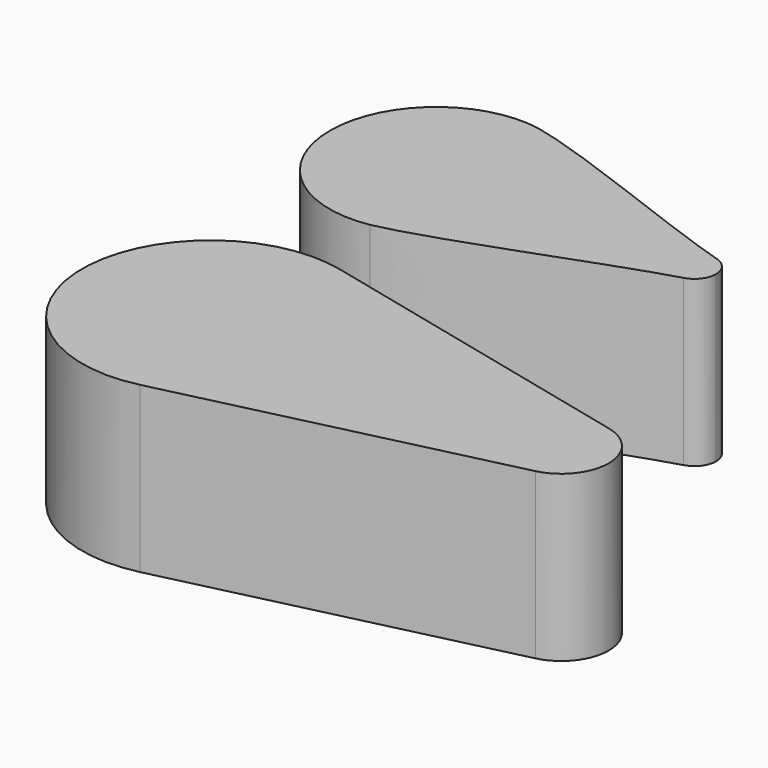
from build123d import *

# Parameters (mm, degrees)
F2_DEPTH = 25.4
F3_DEPTH = 25.4


with BuildPart() as f2:
    # F1 (on Top) → F2 (new body)
    with BuildSketch(Plane.XY):
        with BuildLine():
            Line((-13.406148, 46.528624), (-73.031813, 46.814189))
            ThreePointArc((-73.031813, 46.814189), (-67.287799, 34.231724), (-53.945888, 30.584053))
            add(Edge.make_bspline(
                [(-53.945888, 30.584053), (-45.171594, 32.376531), (-26.191171, 40.326341), (-15.876011, 43.355077)],
                knots=[0, 0, 0, 0, 40.154882, 40.154882, 40.154882, 40.154882], degree=3))
            ThreePointArc((-15.876011, 43.355077), (-14.104857, 44.524527), (-13.406148, 46.528624))
        make_face()
        with BuildLine():
            add(Edge.make_bspline(
                [(-53.791305, 62.860767), (-45.034583, 60.984329), (-26.131177, 52.853082), (-15.8455, 49.725683)],
                knots=[0, 0, 0, 0, 40.154882, 40.154882, 40.154882, 40.154882], degree=3))
            ThreePointArc((-53.791305, 62.860767), (-67.167544, 59.341058), (-73.031813, 46.814189))
            Line((-73.031813, 46.814189), (-13.406148, 46.528624))
            ThreePointArc((-13.406148, 46.528624), (-14.085629, 48.539322), (-15.8455, 49.725683))
        make_face()
    extrude(amount=F2_DEPTH)


with BuildPart() as f3:
    # F0 (on Top) → F3 (new body)
    with BuildSketch(Plane.XY):
        with BuildLine():
            Line((-49.475782, -19.249853), (1.685959, -7.098543))
            ThreePointArc((1.685959, -7.098543), (7.296011, 0), (1.685959, 7.098543))
            Line((1.685959, 7.098543), (-49.475782, 19.249853))
            ThreePointArc((-49.475782, 19.249853), (-73.833117, 0), (-49.475782, -19.249853))
        make_face()
    extrude(amount=F3_DEPTH)


solid = Compound([f2.part, f3.part])
